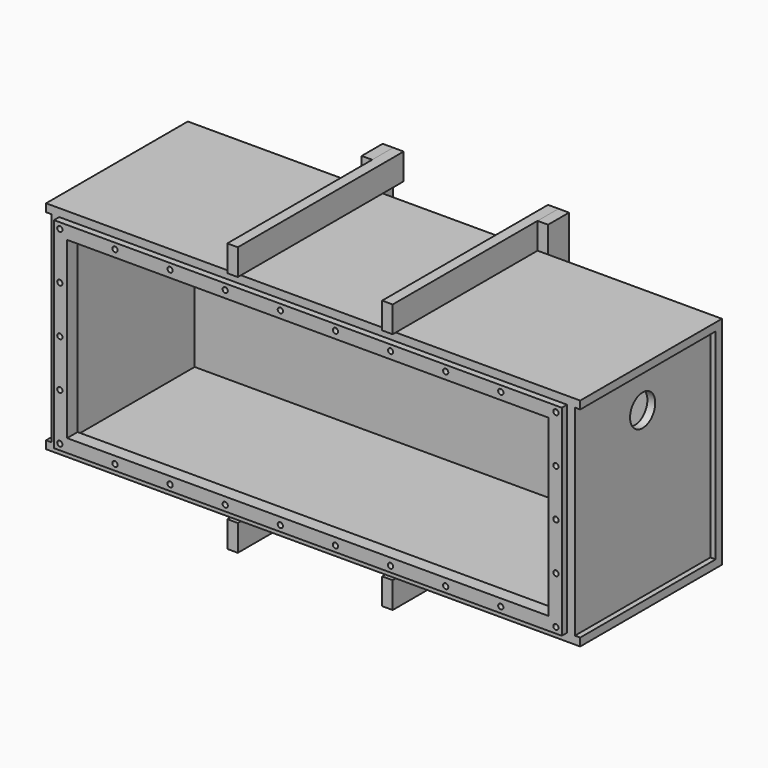
from build123d import *

# Parameters (mm, degrees)
F0_W      = 1266.825
F0_H      = 523.875
F1_DEPTH  = 428.625
F2_W      = 1228.725
F2_H      = 485.775
F3_DEPTH  = 409.575
F4_W      = 1228.725
F4_H      = 485.775
F4_W_2    = 1165.225
F4_H_2    = 422.275
F5_DEPTH  = 15.875
F6_R      = 6.35
F7_DEPTH  = 20
F8_W      = 19.05
F8_H      = 485.775
F9_DEPTH  = 12.7
F10_W     = 19.05
F10_H     = 485.775
F11_DEPTH = 12.7
F12_W     = 25.4
F12_H     = 63.5
F13_DEPTH = 325.4375
F14_W     = 25.4
F14_H     = 63.5
F15_DEPTH = 501.65
F16_W     = 25.4
F16_H     = 63.5
F17_DEPTH = 501.65
F20_R     = 25.4
F21_DEPTH = 25
F20_R_2   = 12.7
F22_DEPTH = 25
F23_R     = 38.1
F24_DEPTH = 25


with BuildPart() as f1:
    # F0 (on Front) → F1 (new body)
    with BuildSketch(Plane.XZ):
        Rectangle(F0_W, F0_H)
    extrude(amount=F1_DEPTH)

    # F2 (on face) → F3 (cut)
    with BuildSketch(Plane.XZ.offset(428.625)):
        Rectangle(F2_W, F2_H)
    extrude(amount=-F3_DEPTH, mode=Mode.SUBTRACT)

    # F8 (on face) → F9 (join)
    with BuildSketch(Plane(origin=(-633.4125, 0, 0), x_dir=(0, -1, 0), z_dir=(-1, 0, 0))):
        Polygon((0, -242.8875), (0, -261.9375), (428.625, -261.9375), (428.625, -242.8875), (19.05, -242.8875), align=None)
        Polygon((0, 261.9375), (0, 242.8875), (19.05, 242.8875), (428.625, 242.8875), (428.625, 261.9375), align=None)
        with Locations((9.525, 0)):
            Rectangle(F8_W, F8_H)
    extrude(amount=F9_DEPTH)

    # F10 (on face) → F11 (join)
    with BuildSketch(Plane.YZ.offset(633.4125)):
        Polygon((0, 261.9375), (-428.625, 261.9375), (-428.625, 242.8875), (-19.05, 242.8875), (0, 242.8875), align=None)
        Polygon((-19.05, -242.8875), (-428.625, -242.8875), (-428.625, -261.9375), (0, -261.9375), (0, -242.8875), align=None)
        with Locations((-9.525, 0)):
            Rectangle(F10_W, F10_H)
    extrude(amount=F11_DEPTH)

    # F20 (on face) → F21 (cut)
    with BuildSketch(Plane.XZ.offset(19.05)):
        with Locations((-0.0127, 153.9875)):
            Circle(F20_R)
        with Locations((536.5623, 153.9875)):
            Circle(F20_R)
        with Locations((409.5623, 153.9875)):
            Circle(F20_R)
        with Locations((282.5623, 153.9875)):
            Circle(F20_R)
        with Locations((126.9873, 153.9875)):
            Circle(F20_R)
    extrude(amount=-F21_DEPTH, mode=Mode.SUBTRACT)

    # F20 (on face) → F22 (cut)
    with BuildSketch(Plane.XZ.offset(19.05)):
        with Locations((126.9873, 153.9875)):
            Circle(F20_R)
        with Locations((282.5623, 153.9875)):
            Circle(F20_R)
        with Locations((409.5623, 153.9875)):
            Circle(F20_R)
        with Locations((536.5623, 153.9875)):
            Circle(F20_R)
        with Locations((-0.0127, 153.9875)):
            Circle(F20_R)
        with Locations((-517.5123, 204.7875)):
            Circle(F20_R_2)
        with Locations((-517.5123, 153.9875)):
            Circle(F20_R_2)
        with Locations((-517.5123, 103.1875)):
            Circle(F20_R_2)
        with Locations((-466.7123, 204.7875)):
            Circle(F20_R_2)
        with Locations((-466.7123, 153.9875)):
            Circle(F20_R_2)
        with Locations((-466.7123, 103.1875)):
            Circle(F20_R_2)
        with Locations((-415.9123, 204.7875)):
            Circle(F20_R_2)
        with Locations((-415.9123, 153.9875)):
            Circle(F20_R_2)
        with Locations((-415.9123, 103.1875)):
            Circle(F20_R_2)
        with Locations((-365.1123, 204.7875)):
            Circle(F20_R_2)
        with Locations((-365.1123, 153.9875)):
            Circle(F20_R_2)
        with Locations((-365.1123, 103.1875)):
            Circle(F20_R_2)
        with Locations((-314.3123, 204.7875)):
            Circle(F20_R_2)
        with Locations((-314.3123, 153.9875)):
            Circle(F20_R_2)
        with Locations((-314.3123, 103.1875)):
            Circle(F20_R_2)
        with Locations((-127.0127, 153.9875)):
            Circle(F20_R)
    extrude(amount=-F22_DEPTH, mode=Mode.SUBTRACT)

    # F23 (on face) → F24 (cut)
    with BuildSketch(Plane.YZ.offset(633.4125)):
        with Locations((-223.8502, 153.9875)):
            Circle(F23_R)
    extrude(amount=-F24_DEPTH, mode=Mode.SUBTRACT)


with BuildPart() as f5:
    # F4 (on face) → F5 (new body, symmetric)
    with BuildSketch(Plane.XZ.offset(428.625)):
        Rectangle(F4_W, F4_H)
        Rectangle(F4_W_2, F4_H_2, mode=Mode.SUBTRACT)
    extrude(amount=F5_DEPTH, both=True)

    # F6 (on face) → F7 (cut)
    with BuildSketch(Plane.XZ.offset(444.5)):
        with Locations((-600.075, 228.5995)):
            Circle(F6_R)
        with Locations((-466.725, 228.5995)):
            Circle(F6_R)
        with Locations((-333.375, 228.5995)):
            Circle(F6_R)
        with Locations((-200.025, 228.5995)):
            Circle(F6_R)
        with Locations((-66.675, 228.5995)):
            Circle(F6_R)
        with Locations((66.675, 228.5995)):
            Circle(F6_R)
        with Locations((200.025, 228.5995)):
            Circle(F6_R)
        with Locations((333.375, 228.5995)):
            Circle(F6_R)
        with Locations((466.725, 228.5995)):
            Circle(F6_R)
        with Locations((600.075, 228.5995)):
            Circle(F6_R)
        with Locations((-600.075, 114.2995)):
            Circle(F6_R)
        with Locations((-600.075, -0.0005)):
            Circle(F6_R)
        with Locations((-600.075, -114.3005)):
            Circle(F6_R)
        with Locations((-600.075, -228.6005)):
            Circle(F6_R)
        with Locations((-466.725, -228.6005)):
            Circle(F6_R)
        with Locations((-333.375, -228.6005)):
            Circle(F6_R)
        with Locations((-200.025, -228.6005)):
            Circle(F6_R)
        with Locations((-66.675, -228.6005)):
            Circle(F6_R)
        with Locations((66.675, -228.6005)):
            Circle(F6_R)
        with Locations((200.025, -228.6005)):
            Circle(F6_R)
        with Locations((333.375, -228.6005)):
            Circle(F6_R)
        with Locations((466.725, -228.6005)):
            Circle(F6_R)
        with Locations((600.075, -228.6005)):
            Circle(F6_R)
        with Locations((600.075, 114.2895)):
            Circle(F6_R)
        with Locations((600.075, -0.0205)):
            Circle(F6_R)
        with Locations((600.075, -114.3305)):
            Circle(F6_R)
        with Locations((600.075, -228.6405)):
            Circle(F6_R)
    extrude(amount=-F7_DEPTH, mode=Mode.SUBTRACT)


with BuildPart() as f13:
    # F12 (on Top) → F13 (new body, symmetric)
    with BuildSketch(Plane.XY):
        with Locations((-212.725, 31.75)):
            Rectangle(F12_W, F12_H)
        with Locations((212.725, 31.75)):
            Rectangle(F12_W, F12_H)
    extrude(amount=F13_DEPTH, both=True)


with BuildPart() as f15:
    # F14 (on face) → F15 (new body)
    with BuildSketch(Plane(origin=(0, 63.5, 0), x_dir=(-1, 0, 0), z_dir=(0, 1, 0))):
        with Locations((187.325, 293.6875)):
            Rectangle(F14_W, F14_H)
        with Locations((-187.325, 293.6875)):
            Rectangle(F14_W, F14_H)
    extrude(amount=-F15_DEPTH)


with BuildPart() as f17:
    # F16 (on face) → F17 (new body)
    with BuildSketch(Plane(origin=(0, 63.5, 0), x_dir=(-1, 0, 0), z_dir=(0, 1, 0))):
        with Locations((-187.325, -293.6875)):
            Rectangle(F16_W, F16_H)
        with Locations((187.325, -293.6875)):
            Rectangle(F16_W, F16_H)
    extrude(amount=-F17_DEPTH)


solid = Compound([f1.part, f5.part, f13.part, f15.part, f17.part])
